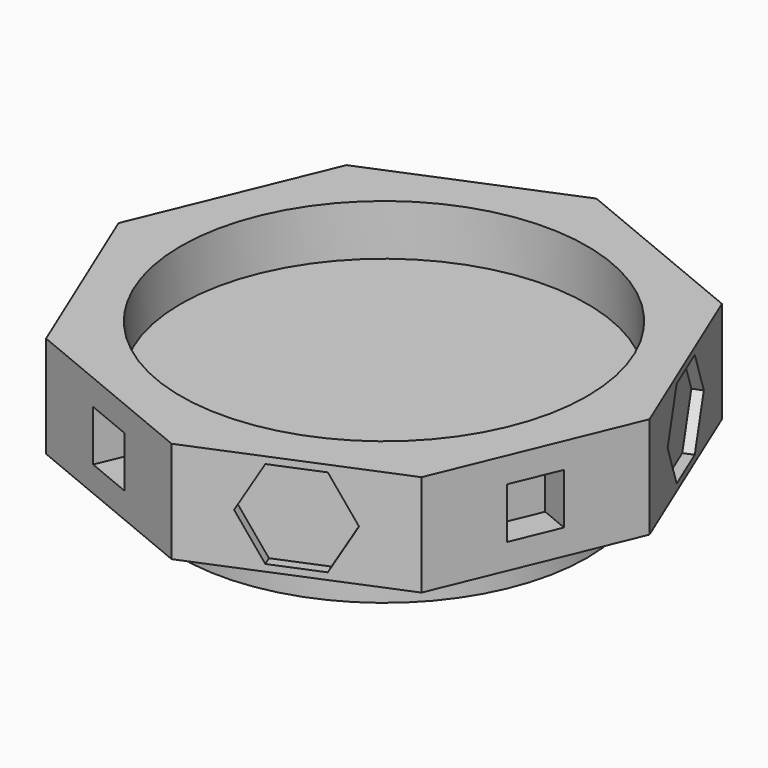
from build123d import *

# Parameters (mm, degrees)
F1_DEPTH  = 50
F2_W      = 25
F2_H      = 25
F3_DEPTH  = 15
F4_W      = 25
F4_H      = 25
F5_DEPTH  = 15
F6_W      = 25
F6_H      = 25
F7_DEPTH  = 15
F8_W      = 25
F8_H      = 25
F9_DEPTH  = 15
F11_DEPTH = 5
F13_DEPTH = 5
F15_DEPTH = 5
F17_DEPTH = 5
F18_R     = 100
F19_DEPTH = 25
F20_R     = 100
F21_DEPTH = 20


with BuildPart() as f1:
    # F0 (on Top) → F1 (new body)
    with BuildSketch(Plane.XY):
        Polygon((-92.3879532511, -92.3879532511), (0, -130.6562964876), (92.3879532511, -92.3879532511), (130.6562964876, 0), (92.3879532511, 92.3879532511), (0, 130.6562964876), (-92.3879532511, 92.3879532511), (-130.6562964876, 0), align=None)
    extrude(amount=F1_DEPTH)

    # F2 (on face) → F3 (cut)
    with BuildSketch(Plane(origin=(-46.1939766256, -111.5221248694, 0), x_dir=(0.9238795325, -0.3826834324, 0), z_dir=(-0.3826834324, -0.9238795325, 0))):
        with Locations((0, 25)):
            Rectangle(F2_W, F2_H)
    extrude(amount=-F3_DEPTH, mode=Mode.SUBTRACT)

    # F4 (on face) → F5 (cut)
    with BuildSketch(Plane(origin=(-111.5221248694, 46.1939766256, 0), x_dir=(-0.3826834324, -0.9238795325, 0), z_dir=(-0.9238795325, 0.3826834324, 0))):
        with Locations((0, 25)):
            Rectangle(F4_W, F4_H)
    extrude(amount=-F5_DEPTH, mode=Mode.SUBTRACT)

    # F6 (on face) → F7 (cut)
    with BuildSketch(Plane(origin=(46.1939766256, 111.5221248694, 0), x_dir=(-0.9238795325, 0.3826834324, 0), z_dir=(0.3826834324, 0.9238795325, 0))):
        with Locations((0, 25)):
            Rectangle(F6_W, F6_H)
    extrude(amount=-F7_DEPTH, mode=Mode.SUBTRACT)

    # F8 (on face) → F9 (cut)
    with BuildSketch(Plane(origin=(111.5221248694, -46.1939766256, 0), x_dir=(0.3826834324, 0.9238795325, 0), z_dir=(0.9238795325, -0.3826834324, 0))):
        with Locations((0, 25)):
            Rectangle(F8_W, F8_H)
    extrude(amount=-F9_DEPTH, mode=Mode.SUBTRACT)

    # F10 (on face) → F11 (cut)
    with BuildSketch(Plane(origin=(46.1939766256, -111.5221248694, 0), x_dir=(0.9238795325, 0.3826834324, 0), z_dir=(0.3826834324, -0.9238795325, 0))):
        Polygon((12.4999989995, 3.3493643278), (25, 24.9999988448), (12.5000010005, 46.650634517), (-12.4999989995, 46.6506356722), (-25, 25.0000011552), (-12.5000010005, 3.349365483), align=None)
    extrude(amount=-F11_DEPTH, mode=Mode.SUBTRACT)

    # F12 (on face) → F13 (cut)
    with BuildSketch(Plane(origin=(111.5221248694, 46.1939766256, 0), x_dir=(-0.3826834324, 0.9238795325, 0), z_dir=(0.9238795325, 0.3826834324, 0))):
        Polygon((12.4999987427, 3.3493641795), (25, 24.9999985481), (12.5000012573, 46.6506343687), (-12.4999987427, 46.6506358205), (-25, 25.0000014519), (-12.5000012573, 3.3493656313), align=None)
    extrude(amount=-F13_DEPTH, mode=Mode.SUBTRACT)

    # F14 (on face) → F15 (cut)
    with BuildSketch(Plane(origin=(-111.5221248694, -46.1939766256, 0), x_dir=(0.3826834324, -0.9238795325, 0), z_dir=(-0.9238795325, -0.3826834324, 0))):
        Polygon((12.5, 46.6506350946), (-12.5, 46.6506350946), (-25, 25), (-12.5, 3.3493649054), (12.5, 3.3493649054), (25, 25), align=None)
    extrude(amount=-F15_DEPTH, mode=Mode.SUBTRACT)

    # F16 (on face) → F17 (cut)
    with BuildSketch(Plane(origin=(-46.1939766256, 111.5221248694, 0), x_dir=(-0.9238795325, -0.3826834324, 0), z_dir=(-0.3826834324, 0.9238795325, 0))):
        Polygon((12.5, 46.6506350946), (-12.5, 46.6506350946), (-25, 25), (-12.5, 3.3493649054), (12.5, 3.3493649054), (25, 25), align=None)
    extrude(amount=-F17_DEPTH, mode=Mode.SUBTRACT)

    # F18 (on face) → F19 (cut)
    with BuildSketch(Plane.XY.offset(50)):
        Circle(F18_R)
    extrude(amount=-F19_DEPTH, mode=Mode.SUBTRACT)

    # F20 (on face) → F21 (join)
    with BuildSketch(Plane(origin=(0, 0, 0), x_dir=(1, 0, 0), z_dir=(0, 0, -1))):
        Circle(F20_R)
    extrude(amount=F21_DEPTH)


with BuildPart() as f1_1:
    # F22: moved
    add(f1.part.moved(Location((0, 0, 10))))


solid = f1_1.part
